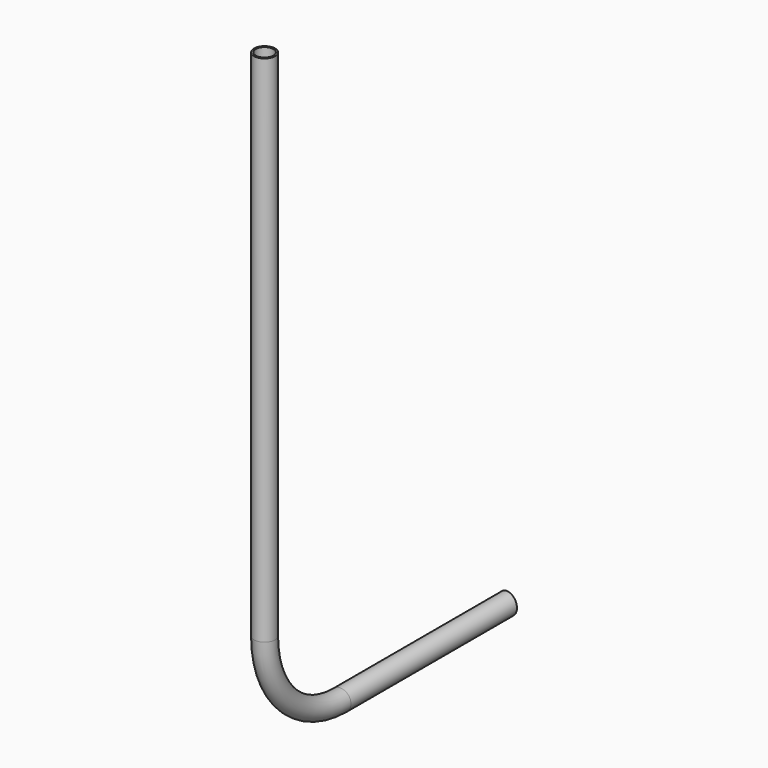
from build123d import *

# Parameters (mm, degrees)
F1_R          = 16.7
F1_R_2        = 13.932
F4_DEPTH      = 16.7010001
F4_DEPTH_BACK = 963.001


with BuildPart() as f2:
    # F2: sweep along a path in F0
    with BuildLine(Plane.YZ) as f2_path:
        Line((0, 0), (-333.6, 0))
        ThreePointArc((-333.6, 0), (-439.666017178, 43.933982822), (-483.6, 150))
        Line((-483.6, 150), (-483.6, 963))
    # F1 (on Front) → F2 (sweep)
    with BuildSketch(Plane.XZ):
        Circle(F1_R)
        Circle(F1_R_2, mode=Mode.SUBTRACT)
    sweep(path=f2_path.line)

    # F3 (on Top) → F4 (cut, two sides)
    with BuildSketch(Plane.XY) as f4_sk:
        Polygon((16.7, 0), (0, 0), (16.7, -2.6450201534), align=None)
        Polygon((-16.7, 0), (0, 0), (-16.7, 2.6450201534), align=None)
        Polygon((16.7, -2.6450201534), (0, 0), (-16.7, 0), (-12.9306502179, -0.5970063556), (16.7, -5.2900403068), align=None)
        Polygon((-12.9306502179, -0.5970063556), (-16.7, 0), (-16.7, -24.395744252), align=None)
    extrude(amount=-F4_DEPTH, mode=Mode.SUBTRACT)
    extrude(f4_sk.sketch, amount=F4_DEPTH_BACK, mode=Mode.SUBTRACT)


solid = f2.part
